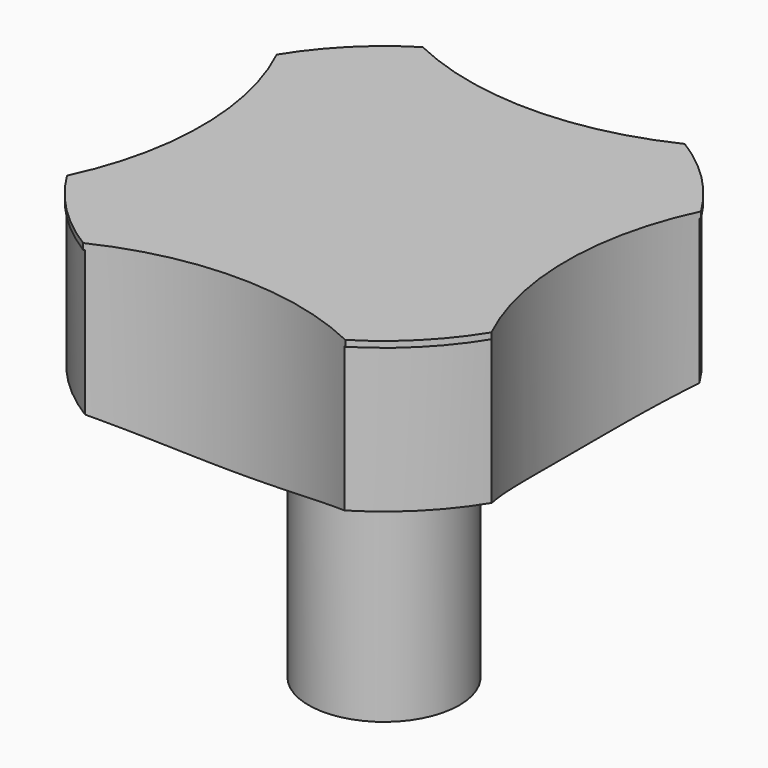
from build123d import *

# Parameters (mm, degrees)
F2_R      = 26.134352
F3_DEPTH  = 0.635
F5_DEPTH  = 4.064
F6_R      = 3.429
F7_DEPTH  = 25.4
F8_R      = 26.035
F9_DEPTH  = 0.635
F10_R     = 7.873192
F10_R_2   = 7.315587
F11_DEPTH = 22.86
F12_R     = 31.75
F13_DEPTH = 25.4


with BuildPart() as f1:
    # F0 (on Front) → F1 (revolve)
    with BuildSketch(Plane.XZ):
        Polygon((0, 21.606712), (0, 0), (7.874, 0), (25.908, 5.858712), (25.908, 21.606712), align=None)
    revolve(axis=Axis((0, 0, 10.803356), (0, 0, -1)))

    # F2 (on face) → F3 (cut)
    with BuildSketch(Plane.XY.offset(21.606712)):
        Circle(F2_R)
    extrude(amount=-F3_DEPTH, mode=Mode.SUBTRACT)

    # F4 (on face) → F5 (cut)
    with BuildSketch(Plane.XY.offset(20.971712)):
        Polygon((2.242883, -6.128247), (6.428659, -1.12173), (4.185776, 5.006517), (-2.242883, 6.128247), (-6.428659, 1.12173), (-4.185776, -5.006517), align=None)
    extrude(amount=-F5_DEPTH, mode=Mode.SUBTRACT)

    # F6 (on face) → F7 (cut)
    with BuildSketch(Plane.XY.offset(16.907712)):
        Circle(F6_R)
    extrude(amount=-F7_DEPTH, mode=Mode.SUBTRACT)

    # F8 (on face) → F9 (join)
    with BuildSketch(Plane.XY.offset(20.971712)):
        Circle(F8_R)
    extrude(amount=F9_DEPTH)

    # F10 (on face) → F11 (join)
    with BuildSketch(Plane(origin=(0, 0, 0), x_dir=(1, 0, 0), z_dir=(0, 0, -1))):
        Circle(F10_R)
        Circle(F10_R_2, mode=Mode.SUBTRACT)
    extrude(amount=F11_DEPTH)

    # F12 (on face) → F13 (cut)
    with BuildSketch(Plane.XY.offset(21.606712)):
        with Locations((-50.8, 0)):
            Circle(F12_R)
        with Locations((0, 50.8)):
            Circle(F12_R)
        with Locations((50.8, 0)):
            Circle(F12_R)
        with Locations((0, -50.8)):
            Circle(F12_R)
    extrude(amount=-F13_DEPTH, mode=Mode.SUBTRACT)


solid = f1.part
